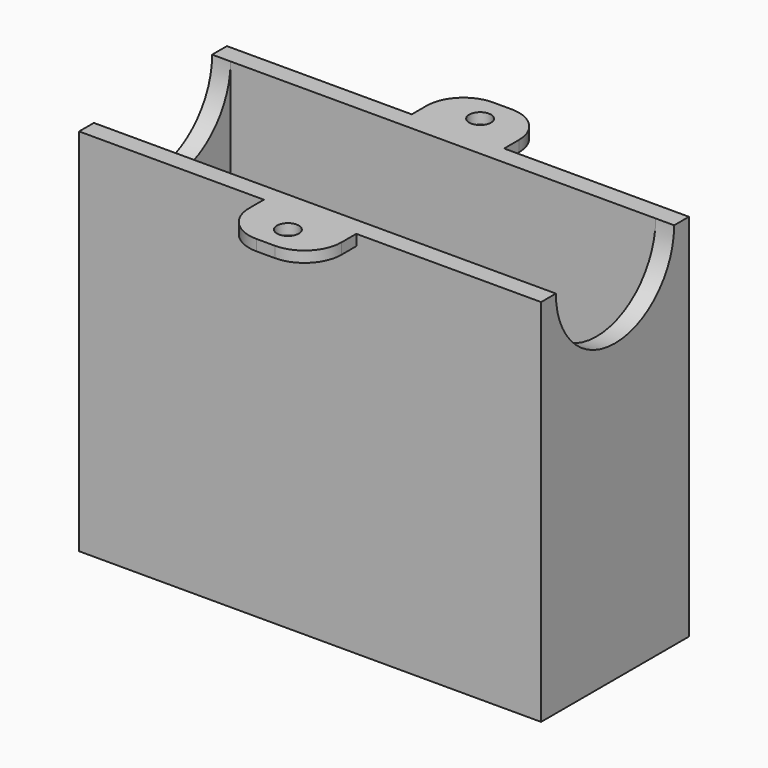
from build123d import *

# Parameters (mm, degrees)
F0_W      = 63.5
F0_H      = 25.4
F0_W_2    = 58.42
F0_H_2    = 20.32
F1_DEPTH  = 50.8
F2_W      = 58.42
F2_H      = 20.32
F3_DEPTH  = 2.54
F4_R      = 10.16
F5_DEPTH  = 63.501
F7_W      = 12.7
F7_H      = 1.5
F8_DEPTH  = 7.62
F10_R     = 1.5
F11_DEPTH = 25.4
F12_R     = 1.5
F13_DEPTH = 25.4
F14_R     = 5.08
F6_W      = 24.13
F6_H      = 12.954
F15_DEPTH = 25.4


with BuildPart() as f1:
    # F0 (on Top) → F1 (new body)
    with BuildSketch(Plane.XY):
        Rectangle(F0_W, F0_H)
        Rectangle(F0_W_2, F0_H_2, mode=Mode.SUBTRACT)
    extrude(amount=F1_DEPTH)

    # F2 (on face) → F3 (join)
    with BuildSketch(Plane(origin=(0, 0, 0), x_dir=(1, 0, 0), z_dir=(0, 0, -1))):
        Rectangle(F2_W, F2_H)
    extrude(amount=-F3_DEPTH)

    # F4 (on face) → F5 (cut, through all)
    with BuildSketch(Plane(origin=(-31.75, 0, 0), x_dir=(0, -1, 0), z_dir=(-1, 0, 0))):
        with Locations((0, 50.8)):
            Circle(F4_R)
    extrude(amount=-F5_DEPTH, mode=Mode.SUBTRACT)

    # F7 (on face) → F8 (join)
    with BuildSketch(Plane.XZ.offset(12.7)):
        with Locations((0, 50.05)):
            Rectangle(F7_W, F7_H)
    extrude(amount=F8_DEPTH)

    # F9: F1 across plane


with BuildPart() as f1_1:
    add(f1.part)
    add(f1.part.mirror(Plane.XZ))

    # F10 (on face) → F11 (cut)
    with BuildSketch(Plane.XY.offset(50.8)):
        with Locations((0, -16.51)):
            Circle(F10_R)
    extrude(amount=-F11_DEPTH, mode=Mode.SUBTRACT)

    # F12 (on face) → F13 (cut)
    with BuildSketch(Plane(origin=(0, 0, 49.3), x_dir=(1, 0, 0), z_dir=(0, 0, -1))):
        with Locations((0, -16.51)):
            Circle(F12_R)
    extrude(amount=-F13_DEPTH, mode=Mode.SUBTRACT)

    # F14
    f14_edges = [f1_1.edges().sort_by_distance(p)[0] for p in [
        (6.35, 20.32, 50.05),
        (-6.35, 20.32, 50.05),
        (6.35, -20.32, 50.05),
        (-6.35, -20.32, 50.05),
    ]]
    fillet(f14_edges, radius=F14_R)

    # F6 (on face) → F15 (cut)
    with BuildSketch(Plane(origin=(0, 0, 0), x_dir=(1, 0, 0), z_dir=(0, 0, -1))):
        Rectangle(F6_W, F6_H)
    extrude(amount=-F15_DEPTH, mode=Mode.SUBTRACT)


solid = f1_1.part
